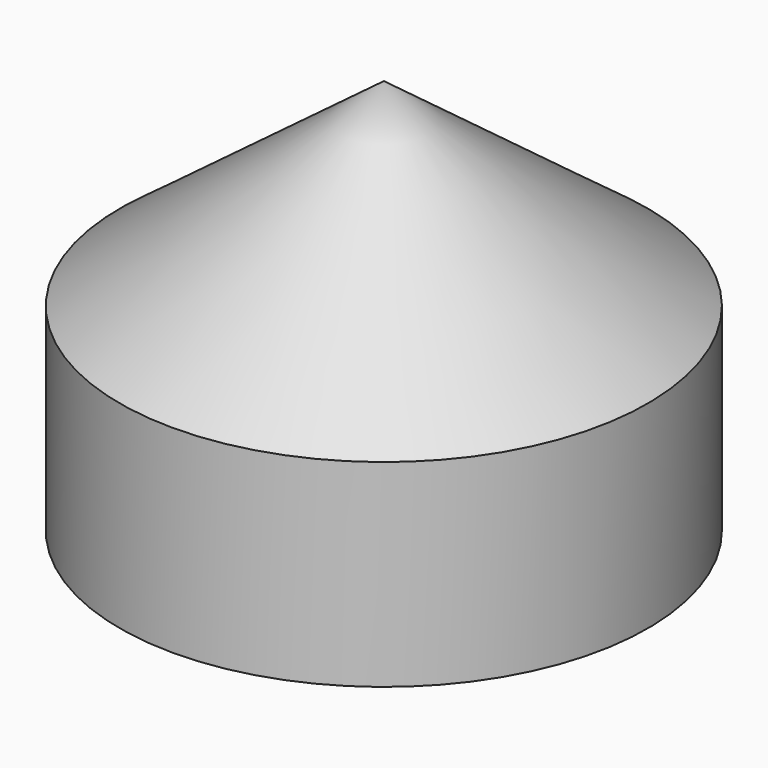
from build123d import *

# Parameters (mm, degrees)
F2_T = -3


with BuildPart() as f1:
    # F0 (on Right) → F1 (revolve)
    with BuildSketch(Plane.YZ):
        Polygon((-40, 0), (0, 0), (0, 60), (-40, 30), align=None)
    revolve(axis=Axis((0, 0, 30), (0, 0, -1)))

    # F2
    f2_openings = [f1.faces().sort_by_distance(p)[0] for p in [
        (0, 0, 0),
    ]]
    offset(amount=F2_T, openings=f2_openings)


solid = f1.part
